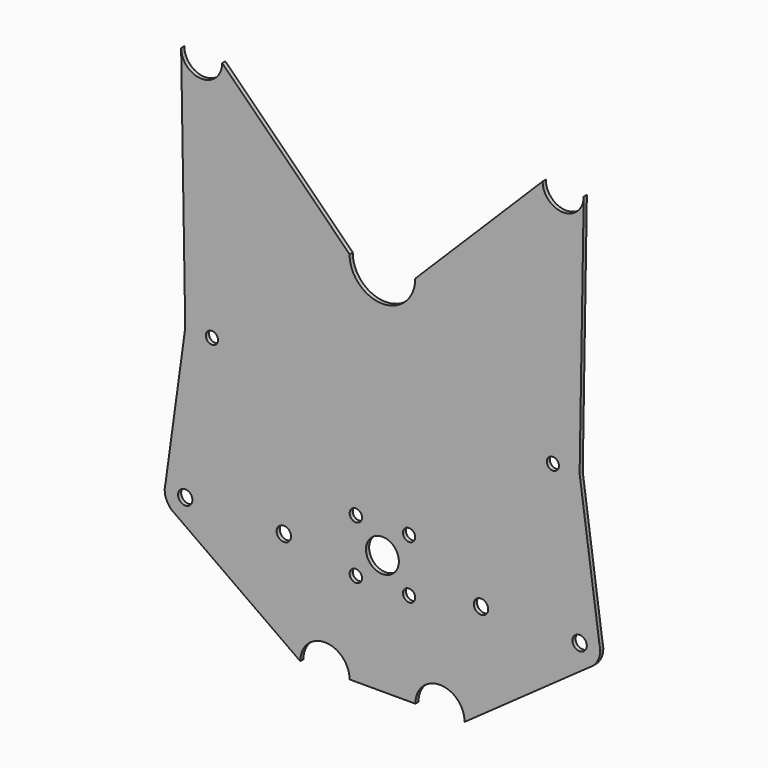
from build123d import *

# Parameters (mm, degrees)
F0_R     = 5.55625
F0_R_2   = 4.7625
F0_R_3   = 12.7
F0_R_4   = 4.719662
F0_R_5   = 4.704253
F1_DEPTH = 3.048


with BuildPart() as f1:
    # F0 (on Front) → F1 (new body)
    with BuildSketch(Plane.XZ):
        with BuildLine():
            ThreePointArc((-155.575, 294.705913), (-155.572772, 294.439949), (-155.566088, 294.174059))
            Line((-155.566088, 294.174059), (-155.575, 294.705913))
        make_face()
        with BuildLine():
            Line((155.575, 294.705913), (155.566088, 294.174059))
            ThreePointArc((155.566088, 294.174059), (155.572772, 294.439949), (155.575, 294.705913))
        make_face()
        with BuildLine():
            ThreePointArc((-63.5, -92.644087), (-44.45, -73.594087), (-25.4, -92.644087))
            Line((-25.4, -92.644087), (25.4, -92.644087))
            ThreePointArc((25.4, -92.644087), (44.45, -73.594087), (63.5, -92.644087))
            Line((63.5, -92.644087), (160.537703, -23.724692))
            Line((160.537703, -23.724692), (162.58925, -22.267616))
            ThreePointArc((162.58925, -22.267616), (166.783497, -16.812021), (168.275, -10.094087))
            Line((168.275, -10.094087), (167.684475, -5.804511))
            Line((167.684475, -5.804511), (152.4, 105.221913))
            Line((152.4, 105.221913), (155.566088, 294.174059))
            ThreePointArc((155.566088, 294.174059), (139.434035, 278.833141), (123.825, 294.705913))
            Line((123.825, 294.705913), (25.396428, 196.652323))
            ThreePointArc((25.396428, 196.652323), (0, 171.255895), (-25.396428, 196.652323))
            Line((-25.396428, 196.652323), (-123.825, 294.705913))
            ThreePointArc((-123.825, 294.705913), (-139.434035, 278.833141), (-155.566088, 294.174059))
            Line((-155.566088, 294.174059), (-152.4, 105.221913))
            Line((-152.4, 105.221913), (-167.684475, -5.804511))
            Line((-167.684475, -5.804511), (-168.275, -10.094087))
            ThreePointArc((-168.275, -10.094087), (-166.783497, -16.812021), (-162.58925, -22.267616))
            Line((-162.58925, -22.267616), (-160.537703, -23.724692))
            Line((-160.537703, -23.724692), (-63.5, -92.644087))
        make_face()
        with Locations((-152.4, -10.094087)):
            Circle(F0_R, mode=Mode.SUBTRACT)
        with Locations((-76.2, -10.094087)):
            Circle(F0_R, mode=Mode.SUBTRACT)
        with Locations((-20.574, -20.574)):
            Circle(F0_R_2, mode=Mode.SUBTRACT)
        with Locations((-20.574, 20.574)):
            Circle(F0_R_2, mode=Mode.SUBTRACT)
        with Locations((20.574, -20.574)):
            Circle(F0_R_2, mode=Mode.SUBTRACT)
        Circle(F0_R_3, mode=Mode.SUBTRACT)
        with Locations((76.2, -10.094087)):
            Circle(F0_R, mode=Mode.SUBTRACT)
        with Locations((152.4, -10.094087)):
            Circle(F0_R, mode=Mode.SUBTRACT)
        with Locations((20.574, 20.574)):
            Circle(F0_R_2, mode=Mode.SUBTRACT)
        with Locations((-131.7498, 105.221913)):
            Circle(F0_R_4, mode=Mode.SUBTRACT)
        with Locations((131.7498, 105.221913)):
            Circle(F0_R_5, mode=Mode.SUBTRACT)
        with BuildLine():
            ThreePointArc((-162.58925, -22.267616), (-161.592392, -23.036867), (-160.537703, -23.724692))
            Line((-160.537703, -23.724692), (-162.58925, -22.267616))
        make_face()
        with BuildLine():
            Line((162.58925, -22.267616), (160.537703, -23.724692))
            ThreePointArc((160.537703, -23.724692), (161.592392, -23.036867), (162.58925, -22.267616))
        make_face()
        with BuildLine():
            ThreePointArc((-167.684475, -5.804511), (-168.126676, -7.929071), (-168.275, -10.094087))
            Line((-168.275, -10.094087), (-167.684475, -5.804511))
        make_face()
        with BuildLine():
            Line((167.684475, -5.804511), (168.275, -10.094087))
            ThreePointArc((168.275, -10.094087), (168.126676, -7.929071), (167.684475, -5.804511))
        make_face()
    extrude(amount=F1_DEPTH)


solid = f1.part
